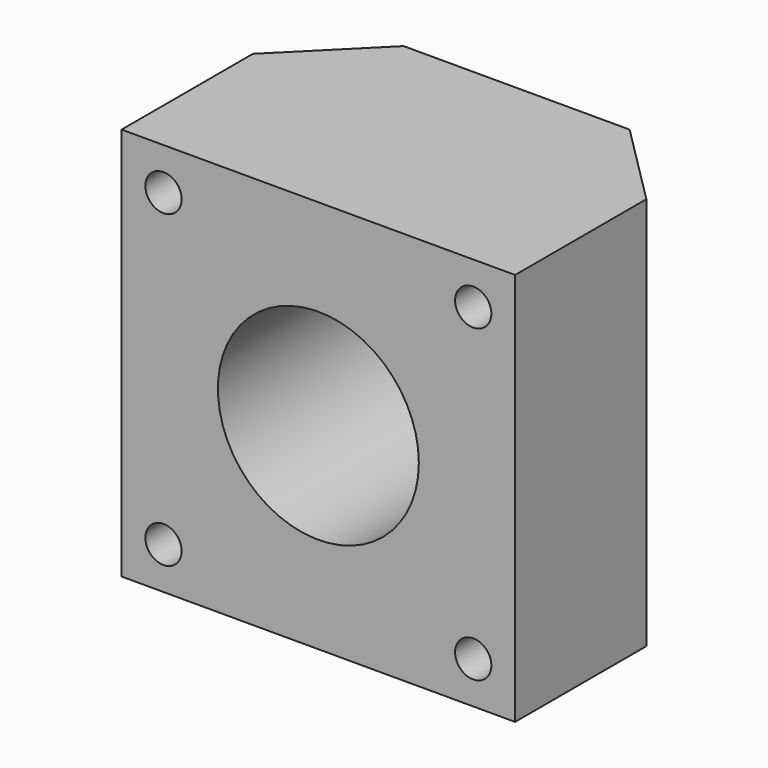
from build123d import *

# Parameters (mm, degrees)
F0_W     = 59.69
F0_H     = 59.69
F1_DEPTH = 37.58946
F2_R     = 15.24
F3_DEPTH = 37.59046
F5_DEPTH = 59.691
F7_D     = 5.5


with BuildPart() as f1:
    # F0 (on Front) → F1 (new body)
    with BuildSketch(Plane.XZ):
        Rectangle(F0_W, F0_H)
    extrude(amount=F1_DEPTH)

    # F2 (on face) → F3 (cut, through all)
    with BuildSketch(Plane.XZ.offset(37.58946)):
        Circle(F2_R)
    extrude(amount=-F3_DEPTH, mode=Mode.SUBTRACT)

    # F4 (on face) → F5 (cut, through all)
    with BuildSketch(Plane.XY.offset(29.845)):
        Polygon((-29.845, -12.7), (-17.145, 0), (-29.845, 0), align=None)
        Polygon((29.845, -12.7), (29.845, 0), (17.145, 0), align=None)
    extrude(amount=-F5_DEPTH, mode=Mode.SUBTRACT)

    # F7 (through all)
    with Locations(Plane.XZ.offset(37.58946)):
        with Locations((-23.49246, 23.49246), (23.49246, 23.49246), (23.49246, -23.49246), (-23.49246, -23.49246)):
            Hole(F7_D / 2)


solid = f1.part
